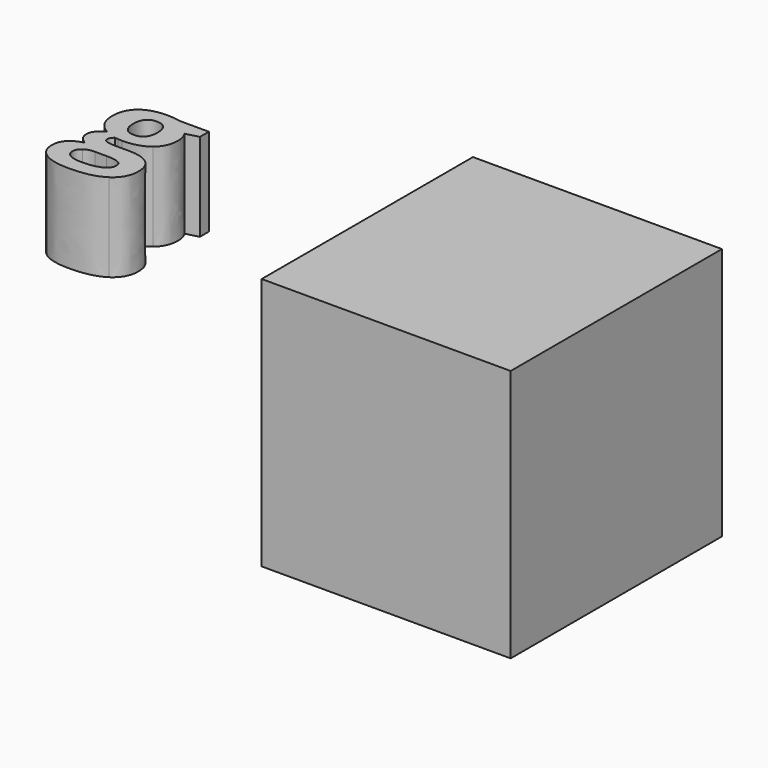
from build123d import *

# Parameters (mm, degrees)
F0_W     = 71.8512311578
F0_H     = 73.0170495808
F1_DEPTH = 76.2
F3_DEPTH = 25.4


with BuildPart() as f1:
    # F0 (on Front) → F1 (new body)
    with BuildSketch(Plane.XZ):
        with Locations((-35.9256155789, 33.1052001566)):
            Rectangle(F0_W, F0_H)
    extrude(amount=F1_DEPTH)


with BuildPart() as f3:
    # F2 (on face) → F3 (new body)
    with BuildSketch(Plane.XY.offset(69.613724947)):
        with BuildLine():
            Line((-95.5748152677, -68.850259835), (-95.5748152677, -65.6043650912))
            Line((-95.5748152677, -65.6043650912), (-103.7330538093, -65.6043650912))
            add(Edge.make_bspline(
                [(-105.4563896784, -65.3467012817), (-104.1078375323, -65.5240542934), (-103.7330538093, -65.6043650912)],
                knots=[0, 0, 0, 1, 1, 1], degree=2))
            add(Edge.make_bspline(
                [(-107.7887490974, -65.1693482699), (-106.8049418245, -65.1693482699), (-105.4563896784, -65.3467012817)],
                knots=[0, 0, 0, 1, 1, 1], degree=2))
            add(Edge.make_bspline(
                [(-114.9029472678, -67.2607752955), (-112.4133125365, -65.1693482699), (-107.7887490974, -65.1693482699)],
                knots=[0, 0, 0, 1, 1, 1], degree=2))
            add(Edge.make_bspline(
                [(-117.3925819991, -73.1736577824), (-117.3925819991, -69.3522023212), (-114.9029472678, -67.2607752955)],
                knots=[0, 0, 0, 1, 1, 1], degree=2))
            add(Edge.make_bspline(
                [(-116.3150787955, -77.319702718), (-117.3925819991, -75.5629040165), (-117.3925819991, -73.1736577824)],
                knots=[0, 0, 0, 1, 1, 1], degree=2))
            add(Edge.make_bspline(
                [(-113.3971198093, -79.8662242645), (-115.2375755919, -79.0765014196), (-116.3150787955, -77.319702718)],
                knots=[0, 0, 0, 1, 1, 1], degree=2))
            add(Edge.make_bspline(
                [(-115.6357832976, -81.6163303995), (-114.8627918689, -80.7295653406), (-113.3971198093, -79.8662242645)],
                knots=[0, 0, 0, 1, 1, 1], degree=2))
            add(Edge.make_bspline(
                [(-116.4087747262, -83.8416087548), (-116.4087747262, -82.5030954584), (-115.6357832976, -81.6163303995)],
                knots=[0, 0, 0, 1, 1, 1], degree=2))
            add(Edge.make_bspline(
                [(-115.6759386965, -85.8627638324), (-116.4087747262, -84.9124193919), (-116.4087747262, -83.8416087548)],
                knots=[0, 0, 0, 1, 1, 1], degree=2))
            add(Edge.make_bspline(
                [(-113.9592953938, -87.2280473947), (-114.9431026667, -86.8131082728), (-115.6759386965, -85.8627638324)],
                knots=[0, 0, 0, 1, 1, 1], degree=2))
            add(Edge.make_bspline(
                [(-117.8275988204, -89.259241322), (-116.5091632235, -87.8370709446), (-113.9592953938, -87.2280473947)],
                knots=[0, 0, 0, 1, 1, 1], degree=2))
            add(Edge.make_bspline(
                [(-119.1460344174, -92.7962627078), (-119.1460344174, -90.6814116994), (-117.8275988204, -89.259241322)],
                knots=[0, 0, 0, 1, 1, 1], degree=2))
            add(Edge.make_bspline(
                [(-116.5627037553, -97.5747551759), (-119.1460344174, -95.868150723), (-119.1460344174, -92.7962627078)],
                knots=[0, 0, 0, 1, 1, 1], degree=2))
            add(Edge.make_bspline(
                [(-109.0871069949, -99.2813596289), (-113.9793730933, -99.2813596289), (-116.5627037553, -97.5747551759)],
                knots=[0, 0, 0, 1, 1, 1], degree=2))
            add(Edge.make_bspline(
                [(-99.2691119657, -97.0226184412), (-102.6890134381, -99.2813596289), (-109.0871069949, -99.2813596289)],
                knots=[0, 0, 0, 1, 1, 1], degree=2))
            add(Edge.make_bspline(
                [(-95.8492104934, -90.661334), (-95.8492104934, -94.7638772535), (-99.2691119657, -97.0226184412)],
                knots=[0, 0, 0, 1, 1, 1], degree=2))
            add(Edge.make_bspline(
                [(-97.8670192878, -85.8092233005), (-95.8492104934, -87.4622872216), (-95.8492104934, -90.661334)],
                knots=[0, 0, 0, 1, 1, 1], degree=2))
            add(Edge.make_bspline(
                [(-103.7330538093, -84.1561593794), (-99.8848280821, -84.1561593794), (-97.8670192878, -85.8092233005)],
                knots=[0, 0, 0, 1, 1, 1], degree=2))
            Line((-103.7330538093, -84.1561593794), (-107.7084382996, -84.1561593794))
            add(Edge.make_bspline(
                [(-111.2220357027, -82.7774906841), (-111.2220357027, -84.1561593794), (-107.7084382996, -84.1561593794)],
                knots=[0, 0, 0, 1, 1, 1], degree=2))
            add(Edge.make_bspline(
                [(-110.2382284298, -81.1043490636), (-111.2220357027, -81.8539165096), (-111.2220357027, -82.7774906841)],
                knots=[0, 0, 0, 1, 1, 1], degree=2))
            Line((-110.2382284298, -81.1043490636), (-109.2945765558, -81.2047375609))
            Line((-109.2945765558, -81.2047375609), (-108.1434551209, -81.2716632257))
            add(Edge.make_bspline(
                [(-100.8585965052, -79.1701973503), (-103.4854288494, -81.2716632257), (-108.1434551209, -81.2716632257)],
                knots=[0, 0, 0, 1, 1, 1], degree=2))
            add(Edge.make_bspline(
                [(-98.231764161, -73.3008165456), (-98.231764161, -77.068731475), (-100.8585965052, -79.1701973503)],
                knots=[0, 0, 0, 1, 1, 1], degree=2))
            add(Edge.make_bspline(
                [(-99.2356491333, -69.7872191425), (-98.231764161, -71.3599722658), (-98.231764161, -73.3008165456)],
                knots=[0, 0, 0, 1, 1, 1], degree=2))
            Line((-99.2356491333, -69.7872191425), (-95.5748152677, -68.850259835))
        make_face()
        with BuildLine():
            add(Edge.make_bspline(
                [(-113.6246670697, -92.2943202216), (-113.6246670697, -93.6127558186), (-112.3597720046, -94.3656695478)],
                knots=[0, 0, 0, 1, 1, 1], degree=2))
            add(Edge.make_bspline(
                [(-112.4434290856, -90.1091972652), (-113.6246670697, -90.9357292257), (-113.6246670697, -92.2943202216)],
                knots=[0, 0, 0, 1, 1, 1], degree=2))
            add(Edge.make_bspline(
                [(-109.5087386833, -89.2826653047), (-111.2621911016, -89.2826653047), (-112.4434290856, -90.1091972652)],
                knots=[0, 0, 0, 1, 1, 1], degree=2))
            Line((-109.5087386833, -89.2826653047), (-106.2026108411, -89.2826653047))
            add(Edge.make_bspline(
                [(-102.6455117559, -89.7846077908), (-103.7932869076, -89.2826653047), (-106.2026108411, -89.2826653047)],
                knots=[0, 0, 0, 1, 1, 1], degree=2))
            add(Edge.make_bspline(
                [(-101.4977366043, -91.604985874), (-101.4977366043, -90.286550277), (-102.6455117559, -89.7846077908)],
                knots=[0, 0, 0, 1, 1, 1], degree=2))
            add(Edge.make_bspline(
                [(-103.4419271673, -94.1749314031), (-101.4977366043, -93.2312795291), (-101.4977366043, -91.604985874)],
                knots=[0, 0, 0, 1, 1, 1], degree=2))
            add(Edge.make_bspline(
                [(-108.8127117691, -95.118583277), (-105.3861177303, -95.118583277), (-103.4419271673, -94.1749314031)],
                knots=[0, 0, 0, 1, 1, 1], degree=2))
            add(Edge.make_bspline(
                [(-112.3597720046, -94.3656695478), (-111.0948769395, -95.118583277), (-108.8127117691, -95.118583277)],
                knots=[0, 0, 0, 1, 1, 1], degree=2))
        make_face(mode=Mode.SUBTRACT)
        with BuildLine():
            add(Edge.make_bspline(
                [(-111.3023465005, -73.2606611467), (-111.3023465005, -75.1613500276), (-110.435659141, -76.2723160636)],
                knots=[0, 0, 0, 1, 1, 1], degree=2))
            add(Edge.make_bspline(
                [(-107.7887490974, -69.0376516965), (-111.3023465005, -69.0376516965), (-111.3023465005, -73.2606611467)],
                knots=[0, 0, 0, 1, 1, 1], degree=2))
            add(Edge.make_bspline(
                [(-104.3219996597, -73.2606611467), (-104.3219996597, -69.0376516965), (-107.7887490974, -69.0376516965)],
                knots=[0, 0, 0, 1, 1, 1], degree=2))
            add(Edge.make_bspline(
                [(-105.1585704699, -76.2723160636), (-104.3219996597, -75.1613500276), (-104.3219996597, -73.2606611467)],
                knots=[0, 0, 0, 1, 1, 1], degree=2))
            add(Edge.make_bspline(
                [(-107.7887490974, -77.3832820996), (-105.9951412802, -77.3832820996), (-105.1585704699, -76.2723160636)],
                knots=[0, 0, 0, 1, 1, 1], degree=2))
            add(Edge.make_bspline(
                [(-110.435659141, -76.2723160636), (-109.5689717816, -77.3832820996), (-107.7887490974, -77.3832820996)],
                knots=[0, 0, 0, 1, 1, 1], degree=2))
        make_face(mode=Mode.SUBTRACT)
    extrude(amount=F3_DEPTH)


solid = Compound([f1.part, f3.part])
